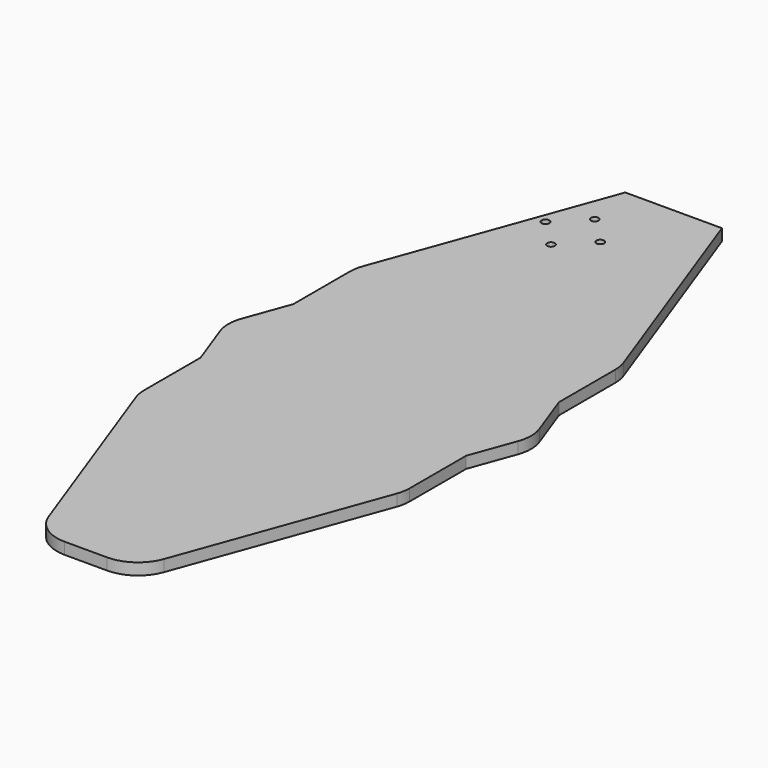
from build123d import *

# Parameters (mm, degrees)
F1_DEPTH = 1.5
F2_R     = 10
F4_D     = 2


with BuildPart() as f1:
    # F0 (on Top) → F1 (new body, symmetric)
    with BuildSketch(Plane.XY):
        Polygon((-34.338214056, 35), (-34.338214056, 15), (-39.79776757, 0), (-34.338214056, -15), (-34.338214056, -35), (-12.5, -95), (0, -95), (12.5, -95), (34.338214056, -35), (34.338214056, -15), (39.79776757, 0), (34.338214056, 15), (34.338214056, 35), (12.5, 95), (0, 95), (-12.5, 95), align=None)
    extrude(amount=F1_DEPTH, both=True)

    # F2
    f2_edges = [f1.edges().sort_by_distance(p)[0] for p in [
        (-34.338214, 35, 0),
        (-39.797768, 0, 0),
        (34.338214, 35, 0),
        (39.797768, 0, 0),
        (-34.338214, -35, 0),
        (34.338214, -35, 0),
        (12.5, -95, 0),
        (-12.5, -95, 0),
    ]]
    fillet(f2_edges, radius=F2_R)

    # F4 (through all)
    with Locations(Plane.XY.offset(1.5)):
        with Locations((-17.0710678119, 74.9289321881), (-10, 82), (-10, 67.8578643763), (-2.9289321881, 74.9289321881)):
            Hole(F4_D / 2)


solid = f1.part
